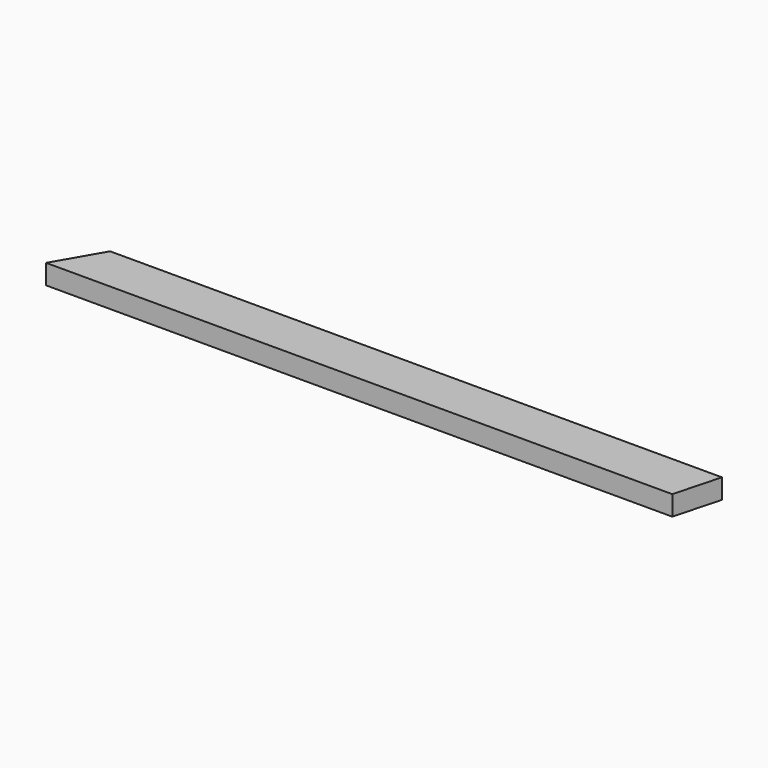
from build123d import *

# Parameters (mm, degrees)
F1_DEPTH = 19


with BuildPart() as f1:
    # F0 (on Top) → F1 (new body, symmetric)
    with BuildSketch(Plane.XY):
        Polygon((449.073391663, -44.5), (472.9208697894, 44.5), (-698.6158260421, 44.5), (-750, -44.5), align=None)
    extrude(amount=F1_DEPTH, both=True)


solid = f1.part
